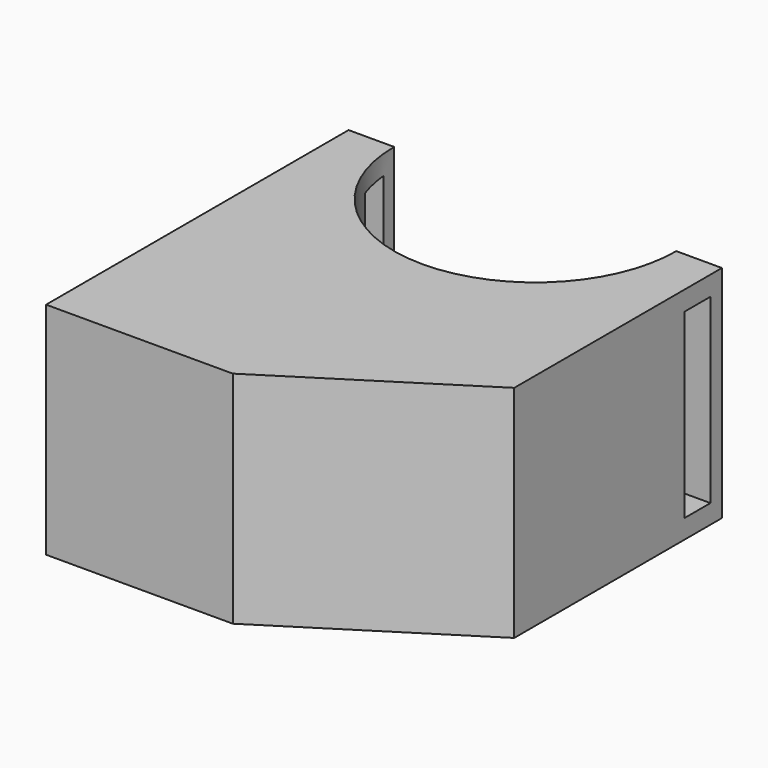
from build123d import *

# Parameters (mm, degrees)
F1_DEPTH = 30
F2_W     = 4.391637
F2_H     = 24.752852
F3_DEPTH = 50.874004


with BuildPart() as f1:
    # F0 (on Top) → F1 (new body)
    with BuildSketch(Plane.XY):
        Polygon((0, -16.146913), (0, 0), (-25.436502, 0), (-50.873004, 0), (-50.873004, -32.293826), (-25.436502, -32.293826), align=None)
        with BuildLine():
            Line((-25.436502, 0), (0, 0))
            Line((0, 0), (0, 19.225791))
            Line((0, 19.225791), (-6.210711, 19.225791))
            ThreePointArc((-6.210711, 19.225791), (-11.841815, 5.631104), (-25.436502, 0))
        make_face()
        with BuildLine():
            Line((-50.873004, 0), (-25.436502, 0))
            ThreePointArc((-25.436502, 0), (-39.031189, 5.631104), (-44.662293, 19.225791))
            Line((-44.662293, 19.225791), (-50.873004, 19.225791))
            Line((-50.873004, 19.225791), (-50.873004, 0))
        make_face()
    extrude(amount=F1_DEPTH)

    # F2 (on face) → F3 (cut, through all)
    with BuildSketch(Plane(origin=(-50.873004, 0, 0), x_dir=(0, -1, 0), z_dir=(-1, 0, 0))):
        with Locations((-15.071293, 14.971483)):
            Rectangle(F2_W, F2_H)
    extrude(amount=-F3_DEPTH, mode=Mode.SUBTRACT)


solid = f1.part
